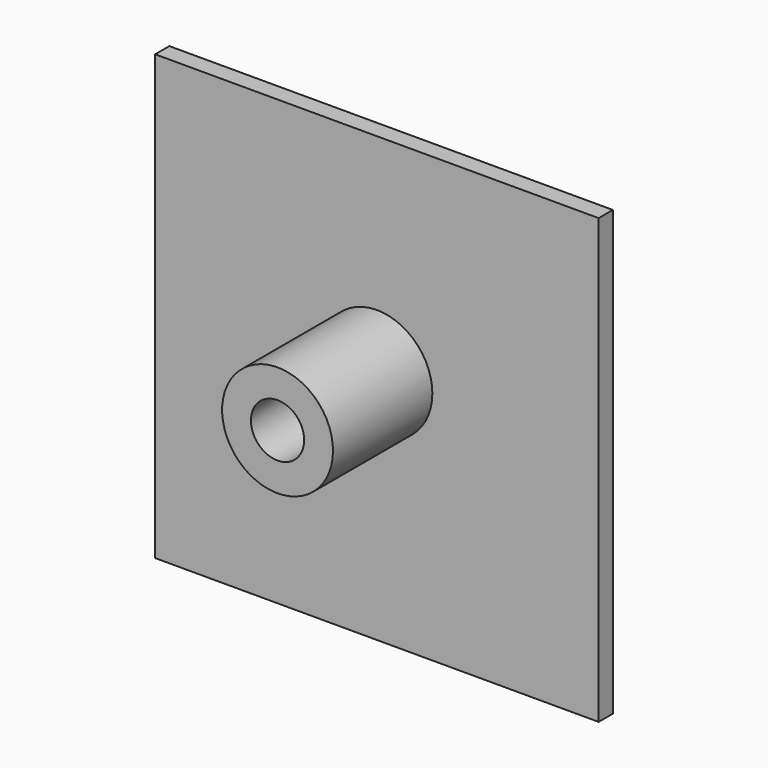
from build123d import *

# Parameters (mm, degrees)
F1_R     = 6.25
F2_DEPTH = 14
F0_W     = 50
F0_H     = 50
F3_DEPTH = 3
F5_D     = 6
F5_DEPTH = 12
F5_TIP   = 1.8025818571
F6_SIZE  = 1


with BuildPart() as f2:
    # F1 (on face) → F2 (new body)
    with BuildSketch(Plane.XZ):
        with Locations((25, 26.5)):
            Circle(F1_R)
    extrude(amount=F2_DEPTH)

    # F0 (on Front) → F3 (join)
    with BuildSketch(Plane.XZ):
        with Locations((25, 25)):
            Rectangle(F0_W, F0_H)
    extrude(amount=-F3_DEPTH)

    # F5
    with Locations(Plane.XZ.offset(14)):
        with Locations((25, 26.5)):
            Hole(F5_D / 2, depth=F5_DEPTH)
            with Locations((0, 0, -(F5_DEPTH + F5_TIP / 2))):  # 118° drill point
                Cone(0, F5_D / 2, F5_TIP, mode=Mode.SUBTRACT)

    # F6
    f6_edges = [f2.edges().sort_by_distance(p)[0] for p in [
        (25, 3, 50),
        (50, 3, 25),
        (0, 3, 25),
        (25, 3, 0),
    ]]
    chamfer(f6_edges, length=F6_SIZE)


solid = f2.part
